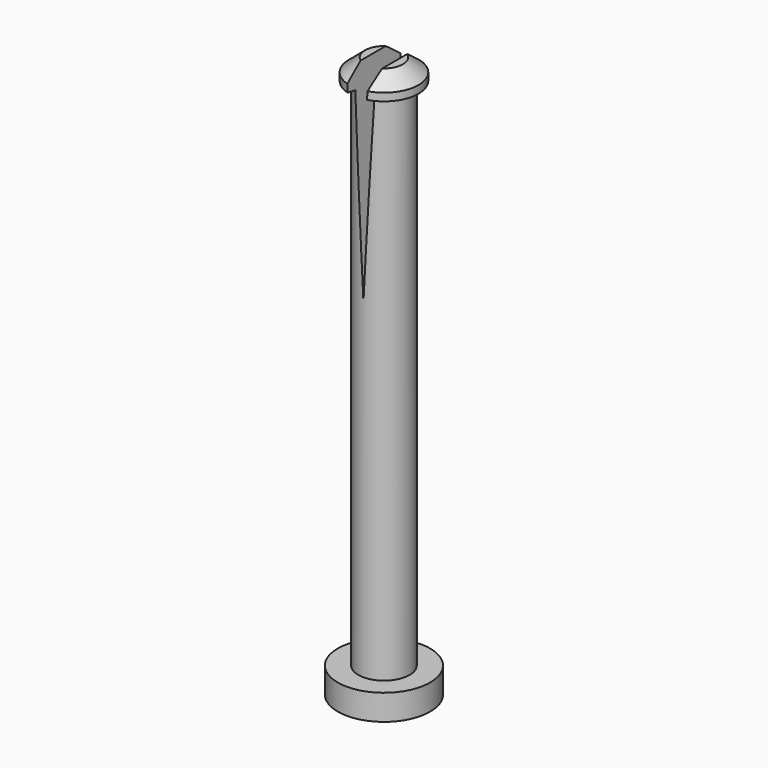
from build123d import *

# Parameters (mm, degrees)
F3_DEPTH      = 4
F3_DEPTH_BACK = 4


with BuildPart() as f2:
    # F0 (on Front) → F2 (revolve)
    with BuildSketch(Plane.XZ):
        Polygon((0, 43.75), (-1.47658, 43.75), (-2.7, 42.723429), (-2.7, 42.123429), (-2, 42), (-2, 2), (-3.6, 2), (-3.6, 0), (0, 0), align=None)
    revolve(axis=Axis((0, 0, -1.246396), (0, 0, -1)))


with BuildPart() as f3:
    # F1 (on Front) → F3 (new body, two sides)
    with BuildSketch(Plane.XZ) as f3_sk:
        Polygon((0.84, 43.75), (-0.84, 43.75), (0, 27.75), align=None)
    extrude(amount=F3_DEPTH)
    extrude(f3_sk.sketch, amount=-F3_DEPTH_BACK)


with BuildPart() as f2_1:
    add(f2.part)

    # F4: cut F3
    add(f3.part, mode=Mode.SUBTRACT)


solid = f2_1.part
